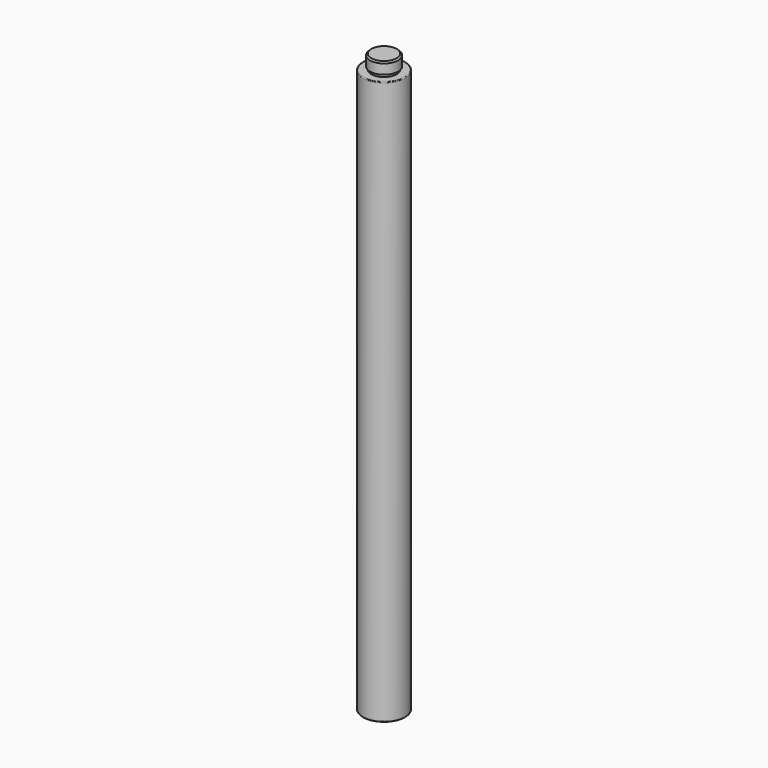
from build123d import *

# Parameters (mm, degrees)
F0_R     = 15
F1_DEPTH = 400
F2_R     = 10
F3_DEPTH = 10
F4_R     = 0.5
F5_SIZE  = 1
F6_W     = 1
F6_H     = 2


with BuildPart() as f1:
    # F0 (on Top) → F1 (new body)
    with BuildSketch(Plane.XY):
        Circle(F0_R)
    extrude(amount=-F1_DEPTH)

    # F2 (on face) → F3 (join)
    with BuildSketch(Plane.XY):
        Circle(F2_R)
    extrude(amount=F3_DEPTH)

    # F4
    f4_edges = [f1.edges().sort_by_distance(p)[0] for p in [
        (-15, 0, -400),
        (-15, 0, 0),
    ]]
    fillet(f4_edges, radius=F4_R)

    # F5
    f5_edges = [f1.edges().sort_by_distance(p)[0] for p in [
        (-10, 0, 10),
    ]]
    chamfer(f5_edges, length=F5_SIZE)

    # F6 (on Front) → F7 (revolve, cut)
    with BuildSketch(Plane.XZ):
        with Locations((-9.5, 1)):
            Rectangle(F6_W, F6_H)
    revolve(axis=Axis((0, 0, 12.057068), (0, 0, 1)), mode=Mode.SUBTRACT)


solid = f1.part
